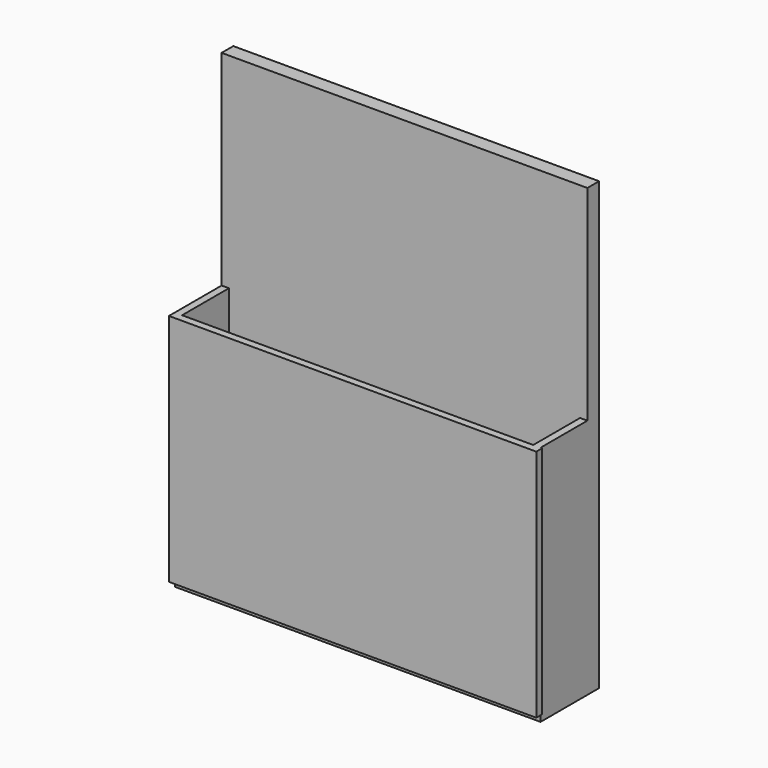
from build123d import *

# Parameters (mm, degrees)
F0_W      = 635
F0_H      = 762
F1_DEPTH  = 12.7
F1_FACE_W = 635
F1_FACE_H = 762
F2_DEPTH  = 12.7
F3_W      = 12.7
F3_H      = 406.4
F4_DEPTH  = 101.6
F5_W      = 12.7
F5_H      = 406.4
F6_DEPTH  = 101.6
F8_DEPTH  = 12.7
F9_W      = 635
F9_H      = 127
F10_DEPTH = 12.7


with BuildPart() as f1:
    # F0 (on Front) → F1 (new body)
    with BuildSketch(Plane.XZ):
        with Locations((8.002397, -204.813847)):
            Rectangle(F0_W, F0_H)
    extrude(amount=F1_DEPTH)

    # F1_face (on face) → F2 (join)
    with BuildSketch(Plane(origin=(8.002397, -12.7, -204.813847), x_dir=(1, 0, 0), z_dir=(0, -1, 0))):
        Rectangle(F1_FACE_W, F1_FACE_H)
    extrude(amount=F2_DEPTH)

    # F3 (on face) → F4 (join)
    with BuildSketch(Plane.XZ.offset(25.4)):
        with Locations((-303.147603, -382.613847)):
            Rectangle(F3_W, F3_H)
    extrude(amount=F4_DEPTH)

    # F5 (on face) → F6 (join)
    with BuildSketch(Plane.XZ.offset(25.4)):
        with Locations((319.152397, -382.613847)):
            Rectangle(F5_W, F5_H)
    extrude(amount=F6_DEPTH)

    # F7 (on face) → F8 (join)
    with BuildSketch(Plane.XZ.offset(127)):
        Polygon((328.198969, -179.413847), (-309.497603, -179.413847), (-309.497603, -585.813847), (328.198969, -586.074769), align=None)
    extrude(amount=F8_DEPTH)

    # F9 (on face) → F10 (join)
    with BuildSketch(Plane(origin=(0, 0, -585.813847), x_dir=(1, 0, 0), z_dir=(0, 0, -1))):
        with Locations((8.002397, 63.5)):
            Rectangle(F9_W, F9_H)
    extrude(amount=F10_DEPTH)


solid = f1.part
